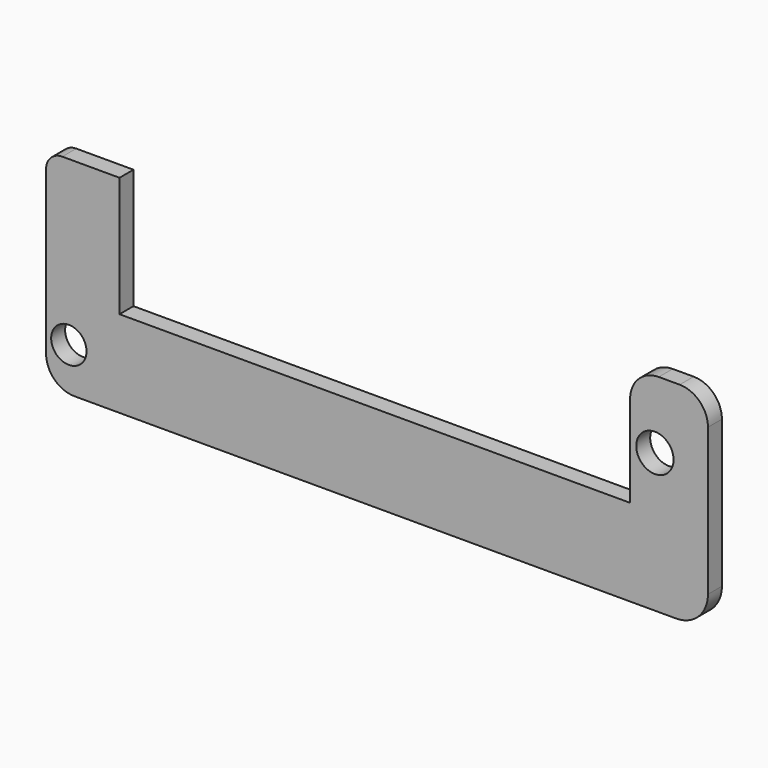
from build123d import *

# Parameters (mm, degrees)
F0_R     = 3.213752
F0_R_2   = 3.395031
F1_DEPTH = 3.175


with BuildPart() as f1:
    # F0 (on Front) → F1 (new body)
    with BuildSketch(Plane.XZ):
        with BuildLine():
            Line((-46.829324, 7.898962), (-60.182601, 7.898962))
            Line((-60.182601, 7.898962), (-60.182601, -2.762051))
            ThreePointArc((-60.182601, -2.762051), (-58.678035, -6.394396), (-55.04569, -7.898962))
            Line((-55.04569, -7.898962), (54.418412, -7.898962))
            ThreePointArc((54.418412, -7.898962), (58.494309, -6.21067), (60.182601, -2.134773))
            Line((60.182601, -2.134773), (60.182601, 7.898962))
            Line((60.182601, 7.898962), (46.024378, 7.898962))
            Line((46.024378, 7.898962), (-46.829324, 7.898962))
        make_face()
        with Locations((-56.045044, 0)):
            Circle(F0_R, mode=Mode.SUBTRACT)
        with BuildLine():
            Line((46.024378, 24.533684), (46.024378, 7.898962))
            Line((46.024378, 7.898962), (60.182601, 7.898962))
            Line((60.182601, 7.898962), (60.182601, 24.608338))
            ThreePointArc((60.182601, 24.608338), (58.678035, 28.240683), (55.04569, 29.745249))
            Line((55.04569, 29.745249), (51.235944, 29.745249))
            ThreePointArc((51.235944, 29.745249), (47.55081, 28.218817), (46.024378, 24.533684))
        make_face()
        with Locations((50.535034, 17.366237)):
            Circle(F0_R_2, mode=Mode.SUBTRACT)
        with BuildLine():
            Line((-60.182601, 26.800658), (-60.182601, 7.898962))
            Line((-60.182601, 7.898962), (-46.829324, 7.898962))
            Line((-46.829324, 7.898962), (-46.829324, 29.745249))
            Line((-46.829324, 29.745249), (-57.238011, 29.745249))
            ThreePointArc((-57.238011, 29.745249), (-59.320151, 28.882798), (-60.182601, 26.800658))
        make_face()
    extrude(amount=F1_DEPTH)


solid = f1.part
